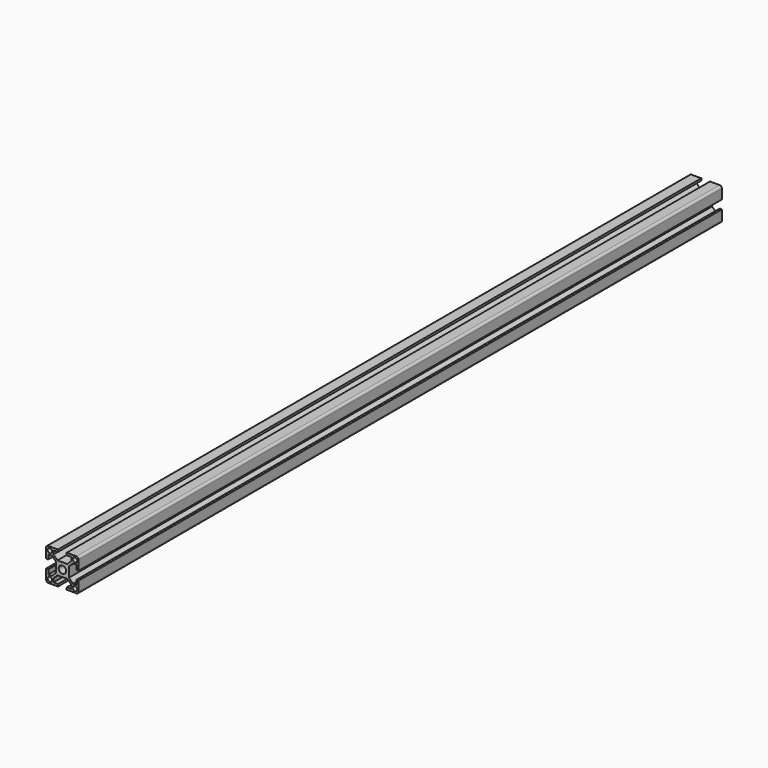
from build123d import *

# Parameters (mm, degrees)
F0_R     = 2.1
F1_DEPTH = 740


with BuildPart() as f1:
    # F0 (on Front) → F1 (new body)
    with BuildSketch(Plane.XZ):
        with BuildLine():
            Line((4.585786, 6), (0, 6))
            Line((0, 6), (-4.585786, 6))
            Line((-4.585786, 6), (-8.25, 9.664214))
            Line((-8.25, 9.664214), (-8.25, 13))
            Line((-8.25, 13), (-4, 13))
            Line((-4, 13), (-4, 15))
            Line((-4, 15), (-13, 15))
            ThreePointArc((-13, 15), (-14.414214, 14.414214), (-15, 13))
            Line((-15, 13), (-15, 4))
            Line((-15, 4), (-13, 4))
            Line((-13, 4), (-13, 8.25))
            Line((-13, 8.25), (-9.664214, 8.25))
            Line((-9.664214, 8.25), (-6, 4.585786))
            Line((-6, 4.585786), (-6, 0))
            Line((-6, 0), (-6, -4.585786))
            Line((-6, -4.585786), (-9.664214, -8.25))
            Line((-9.664214, -8.25), (-13, -8.25))
            Line((-13, -8.25), (-13, -4))
            Line((-13, -4), (-15, -4))
            Line((-15, -4), (-15, -13))
            ThreePointArc((-15, -13), (-14.414214, -14.414214), (-13, -15))
            Line((-13, -15), (-4, -15))
            Line((-4, -15), (-4, -13))
            Line((-4, -13), (-8.25, -13))
            Line((-8.25, -13), (-8.25, -9.664214))
            Line((-8.25, -9.664214), (-4.585786, -6))
            Line((-4.585786, -6), (0, -6))
            Line((0, -6), (4.585786, -6))
            Line((4.585786, -6), (8.25, -9.664214))
            Line((8.25, -9.664214), (8.25, -13))
            Line((8.25, -13), (4, -13))
            Line((4, -13), (4, -15))
            Line((4, -15), (13, -15))
            ThreePointArc((13, -15), (14.414214, -14.414214), (15, -13))
            Line((15, -13), (15, -4))
            Line((15, -4), (13, -4))
            Line((13, -4), (13, -8.25))
            Line((13, -8.25), (9.664214, -8.25))
            Line((9.664214, -8.25), (6, -4.585786))
            Line((6, -4.585786), (6, 0))
            Line((6, 0), (6, 4.585786))
            Line((6, 4.585786), (9.664214, 8.25))
            Line((9.664214, 8.25), (13, 8.25))
            Line((13, 8.25), (13, 4))
            Line((13, 4), (15, 4))
            Line((15, 4), (15, 13))
            ThreePointArc((15, 13), (14.414214, 14.414214), (13, 15))
            Line((13, 15), (4, 15))
            Line((4, 15), (4, 13))
            Line((4, 13), (8.25, 13))
            Line((8.25, 13), (8.25, 9.664214))
            Line((8.25, 9.664214), (4.585786, 6))
        make_face()
        with Locations((-11.6, -11.6)):
            Circle(F0_R, mode=Mode.SUBTRACT)
        with Locations((11.6, -11.6)):
            Circle(F0_R, mode=Mode.SUBTRACT)
        with Locations((-11.6, 11.6)):
            Circle(F0_R, mode=Mode.SUBTRACT)
        with BuildLine():
            ThreePointArc((-3.4, 0), (-2.404163, 2.404163), (0, 3.4))
            ThreePointArc((0, 3.4), (2.404163, 2.404163), (3.4, 0))
            ThreePointArc((3.4, 0), (2.404163, -2.404163), (0, -3.4))
            ThreePointArc((0, -3.4), (-2.404163, -2.404163), (-3.4, 0))
        make_face(mode=Mode.SUBTRACT)
        with Locations((11.6, 11.6)):
            Circle(F0_R, mode=Mode.SUBTRACT)
    extrude(amount=F1_DEPTH)


solid = f1.part
